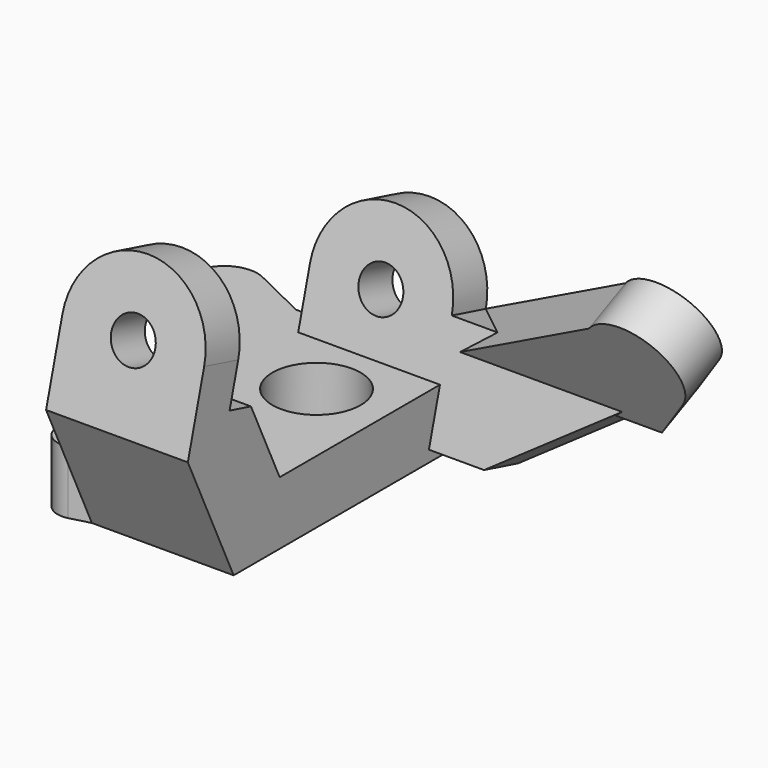
from build123d import *

# Parameters (mm, degrees)
F0_W       = 45
F0_H       = 91
F0_R       = 14
F1_DEPTH   = 20
F3_R       = 7
F4_DEPTH   = 14
F7_DEPTH   = 16
F9_W       = 45
F9_H       = 43
F10_DEPTH  = 25
F12_R      = 7
F13_DEPTH  = 14
F13_FACE_R = 7
F14_DEPTH  = 15.248435


with BuildPart() as f1:
    # F0 (on Top) → F1 (new body)
    with BuildSketch(Plane.XY):
        with BuildLine():
            Line((-30.5, 14.547375), (-30.5, 45.5))
            Line((-30.5, 45.5), (-47.897288, 53.984803))
            ThreePointArc((-47.897288, 53.984803), (-43.595549, 50.111615), (-42, 44.547375))
            ThreePointArc((-42, 44.547375), (-47.84382, 35.136212), (-58.870473, 36.200695))
            Line((-58.870473, 36.200695), (-30.5, 14.547375))
        make_face()
        with BuildLine():
            ThreePointArc((-42, 44.547375), (-43.595549, 50.111615), (-47.897288, 53.984803))
            ThreePointArc((-47.897288, 53.984803), (-61.435875, 50.061007), (-58.870473, 36.200695))
            ThreePointArc((-58.870473, 36.200695), (-47.84382, 35.136212), (-42, 44.547375))
        make_face()
        Rectangle(F0_W, F0_H)
        with Locations((0, 15.5)):
            Circle(F0_R, mode=Mode.SUBTRACT)
        with BuildLine():
            Line((-22.5, -45.5), (-22.5, 45.5))
            Line((-22.5, 45.5), (-30.5, 45.5))
            Line((-30.5, 45.5), (-30.5, 14.547375))
            Line((-30.5, 14.547375), (-30.5, -29.491527))
            Line((-30.5, -29.491527), (-30.5, -33.539497))
            ThreePointArc((-30.5, -33.539497), (-25.61168, -35.564305), (-23.586872, -40.452625))
            ThreePointArc((-23.586872, -40.452625), (-25.026188, -44.675033), (-28.744805, -47.139226))
            Line((-28.744805, -47.139226), (-22.5, -45.5))
        make_face()
        with BuildLine():
            ThreePointArc((-35.864791, -36.092538), (-36.310734, -44.197851), (-28.744805, -47.139226))
            ThreePointArc((-28.744805, -47.139226), (-25.026188, -44.675033), (-23.586872, -40.452625))
            ThreePointArc((-23.586872, -40.452625), (-25.61168, -35.564305), (-30.5, -33.539497))
            ThreePointArc((-30.5, -33.539497), (-33.470648, -34.210302), (-35.864791, -36.092538))
        make_face()
        with BuildLine():
            Line((-30.5, -29.491527), (-35.864791, -36.092538))
            ThreePointArc((-35.864791, -36.092538), (-33.470648, -34.210302), (-30.5, -33.539497))
            Line((-30.5, -33.539497), (-30.5, -29.491527))
        make_face()
    extrude(amount=F1_DEPTH)

    # F3 (on face) → F4 (join)
    with BuildSketch(Plane(origin=(0, 42.452078, -11.375), x_dir=(1, 0, 0), z_dir=(0, -0.965926, 0.258819))):
        with BuildLine():
            ThreePointArc((-22.5, 46.776267), (0, 24.276267), (22.5, 46.776267))
            ThreePointArc((22.5, 46.776267), (0, 69.276267), (-22.5, 46.776267))
        make_face()
        with Locations((0, 46.776267)):
            Circle(F3_R, mode=Mode.SUBTRACT)
        with BuildLine():
            Line((22.5, 11.776267), (22.5, 46.776267))
            ThreePointArc((22.5, 46.776267), (0, 24.276267), (-22.5, 46.776267))
            Line((-22.5, 46.776267), (-22.5, 11.776267))
            Line((-22.5, 11.776267), (22.5, 11.776267))
        make_face()
        Polygon((90, 46.776267), (22.5, 46.776267), (22.5, 11.776267), (40, 11.776267), align=None)
    extrude(amount=F4_DEPTH)

    # F6 (on face) → F7 (join)
    with BuildSketch(Plane(origin=(0, 57.763138, 26.935393), x_dir=(-1, 0, 0), z_dir=(0, 0.906308, 0.422618))):
        with BuildLine():
            ThreePointArc((-78.482193, 42.09701), (-75.954981, 37.634972), (-75.078428, 32.582425))
            ThreePointArc((-75.078428, 32.582425), (-85.312715, 18.359627), (-102.050159, 23.544855))
            Line((-102.050159, 23.544855), (-90.000033, 7.582504))
            Line((-90.000033, 7.582504), (-22.441784, 7.582504))
            Line((-22.441784, 7.582504), (-78.482193, 42.09701))
        make_face()
        with BuildLine():
            ThreePointArc((-102.050159, 23.544855), (-85.312715, 18.359627), (-75.078428, 32.582425))
            ThreePointArc((-75.078428, 32.582425), (-75.954981, 37.634972), (-78.482193, 42.09701))
            ThreePointArc((-78.482193, 42.09701), (-99.356405, 44.368821), (-102.050159, 23.544855))
        make_face()
    extrude(amount=-F7_DEPTH)

    # F9 (on face) → F10 (join)
    with BuildSketch(Plane(origin=(0, -37.373418, -17.427511), x_dir=(1, 0, 0), z_dir=(0, -0.906308, -0.422618))):
        with Locations((0, 40.729131)):
            Rectangle(F9_W, F9_H)
    extrude(amount=-F10_DEPTH)

    # F12 (on face) → F13 (join)
    with BuildSketch(Plane(origin=(0, -69.15014, 18.528724), x_dir=(-1, 0, 0), z_dir=(0, 0.965926, -0.258819))):
        with BuildLine():
            ThreePointArc((-22.5, 46.163645), (0, 23.663645), (22.5, 46.163645))
            ThreePointArc((22.5, 46.163645), (0, 68.663645), (-22.5, 46.163645))
        make_face()
        with Locations((0, 46.163645)):
            Circle(F12_R, mode=Mode.SUBTRACT)
        with BuildLine():
            Line((22.5, 21.163645), (22.5, 46.163645))
            ThreePointArc((22.5, 46.163645), (0, 23.663645), (-22.5, 46.163645))
            Line((-22.5, 46.163645), (-22.5, 21.163645))
            Line((-22.5, 21.163645), (22.5, 21.163645))
        make_face()
    extrude(amount=F13_DEPTH)

    # F13_face (on face) → F14 (cut)
    with BuildSketch(Plane(origin=(0, -42.917516, 62.338362), x_dir=(-1, 0, 0), z_dir=(0, 0.965926, -0.258819))):
        with BuildLine():
            ThreePointArc((22.5, -2.942718), (0, 19.557282), (-22.5, -2.942718))
            Line((-22.5, -2.942718), (-22.5, -16.195324))
            Line((-22.5, -16.195324), (22.5, -16.195324))
            Line((22.5, -16.195324), (22.5, -2.942718))
        make_face()
        with Locations((0, -2.942718)):
            Circle(F13_FACE_R, mode=Mode.SUBTRACT)
    extrude(amount=F14_DEPTH, mode=Mode.SUBTRACT)


solid = f1.part
